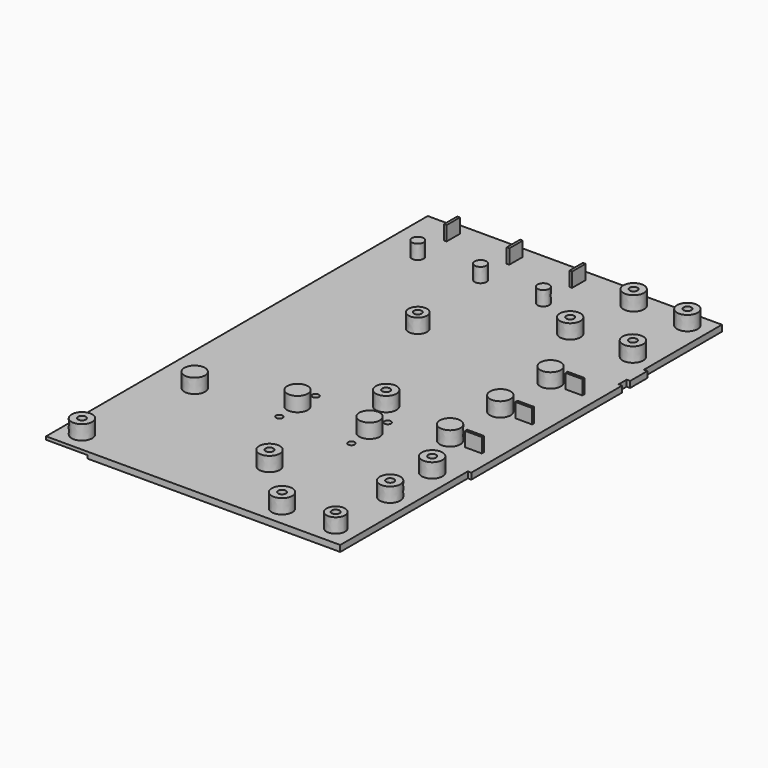
from build123d import *

# Parameters (mm, degrees)
SKETCH_W        = 132.8
SKETCH_H        = 231.6
PAD_DEPTH       = 3
SKETCH001_W     = 231.6
SKETCH001_H     = 1.5
POCKET_DEPTH    = 10
SKETCH002_W     = 231.6
SKETCH002_H     = 1.5
PAD001_DEPTH    = 10
SKETCH005_R     = 1.6
HOLE_DEPTH      = 3.001
SKETCH006_R     = 5
PAD003_DEPTH    = 7
SKETCH007_R     = 1.9
POCKET002_DEPTH = 8.6
SKETCH008_W     = 91.5
SKETCH008_H     = 3
SKETCH008_W_2   = 10.5
PAD004_DEPTH    = 1.7
SKETCH009_W     = 89.5
SKETCH009_H     = 3
PAD005_DEPTH    = 1.7
PAD006_DEPTH    = 7
POCKET003_DEPTH = 5.6


with BuildPart() as part:
    # Sketch → Pad (new body)
    with BuildSketch(Plane.XY.offset(18)):
        with Locations((66.4, 0)):
            Rectangle(SKETCH_W, SKETCH_H)
    extrude(amount=PAD_DEPTH)

    # Sketch001 (on Face4 of Pad) → Pocket (cut)
    with BuildSketch(Plane(origin=(0, 0, 18), x_dir=(0, -1, 0), z_dir=(-1, 0, 0))):
        with Locations((0, 0.75)):
            Rectangle(SKETCH001_W, SKETCH001_H)
    extrude(amount=-POCKET_DEPTH, mode=Mode.SUBTRACT)

    # Sketch002 (on Face7 of Pocket) → Pad001 (join)
    with BuildSketch(Plane(origin=(0, 0, 18), x_dir=(0, -1, 0), z_dir=(-1, 0, 0))):
        with Locations((0, 2.25)):
            Rectangle(SKETCH002_W, SKETCH002_H)
    extrude(amount=PAD001_DEPTH)

    # Sketch005 → Hole (cut, through all)
    with BuildSketch(Plane.XY.offset(21)):
        with Locations((49, -26)):
            Circle(SKETCH005_R)
        with Locations((84, -26)):
            Circle(SKETCH005_R)
        with Locations((49, -48)):
            Circle(SKETCH005_R)
        with Locations((84, -48)):
            Circle(SKETCH005_R)
    extrude(amount=-HOLE_DEPTH, mode=Mode.SUBTRACT)

    # Sketch006 (on Face6 of Hole) → Pad003 (join)
    with BuildSketch(Plane.XY.offset(21)):
        with Locations((49, -37)):
            Circle(SKETCH006_R)
        with Locations((84, -37)):
            Circle(SKETCH006_R)
    extrude(amount=PAD003_DEPTH)

    # Sketch007 (on Face4 of Pad003) → Pocket002 (cut)
    with BuildSketch(Plane(origin=(0, 0, 18), x_dir=(1, 0, 0), z_dir=(0, 0, -1))):
        with Locations((49, 37)):
            Circle(SKETCH007_R)
        with Locations((84, 37)):
            Circle(SKETCH007_R)
    extrude(amount=-POCKET002_DEPTH, mode=Mode.SUBTRACT)

    # Sketch008 (on Face5 of Pocket002) → Pad004 (join)
    with BuildSketch(Plane(origin=(132.8, 0, 18), x_dir=(0, 1, 0), z_dir=(1, 0, 0))):
        with Locations((7.35, 1.5)):
            Rectangle(SKETCH008_W, SKETCH008_H)
        with Locations((63.25, 1.5)):
            Rectangle(SKETCH008_W_2, SKETCH008_H)
    extrude(amount=PAD004_DEPTH)

    # Sketch009 (on Face1 of Pad004) → Pad005 (join)
    with BuildSketch(Plane(origin=(0, 115.8, 18), x_dir=(-1, 0, 0), z_dir=(0, 1, 0))):
        with Locations((-44.75, 1.5)):
            Rectangle(SKETCH009_W, SKETCH009_H)
    extrude(amount=PAD005_DEPTH)

    # Sketch010 (on Face5 of Pad005) → Pad006 (join)
    with BuildSketch(Plane.XY.offset(21)):
        with BuildLine():
            add(Edge.make_bspline(
                [(127.768118, -23.612538), (127.768118, -22.342538)],
                knots=[0, 0, 500, 500], degree=1))
            add(Edge.make_bspline(
                [(127.768118, -22.342538), (119.640118, -22.342538)],
                knots=[0, 0, 3200, 3200], degree=1))
            add(Edge.make_bspline(
                [(119.640118, -22.342538), (119.640118, -23.612538)],
                knots=[0, 0, 500, 500], degree=1))
            add(Edge.make_bspline(
                [(119.640118, -23.612538), (127.768118, -23.612538)],
                knots=[0, 0, 3200, 3200], degree=1))
        make_face()
        with BuildLine():
            add(Edge.make_bspline(
                [(127.768118, 6.867462), (127.768118, 8.137462)],
                knots=[0, 0, 500, 500], degree=1))
            add(Edge.make_bspline(
                [(127.768118, 8.137462), (119.640118, 8.137462)],
                knots=[0, 0, 3200, 3200], degree=1))
            add(Edge.make_bspline(
                [(119.640118, 8.137462), (119.640118, 6.867462)],
                knots=[0, 0, 500, 500], degree=1))
            add(Edge.make_bspline(
                [(119.640118, 6.867462), (127.768118, 6.867462)],
                knots=[0, 0, 3200, 3200], degree=1))
        make_face()
        with BuildLine():
            add(Edge.make_bspline(
                [(119.640118, 37.347462), (127.768118, 37.347462)],
                knots=[0, 0, 3200, 3200], degree=1))
            add(Edge.make_bspline(
                [(127.768118, 37.347462), (127.768118, 38.617462)],
                knots=[0, 0, 500, 500], degree=1))
            add(Edge.make_bspline(
                [(127.768118, 38.617462), (119.640118, 38.617462)],
                knots=[0, 0, 3200, 3200], degree=1))
            add(Edge.make_bspline(
                [(119.640118, 38.617462), (119.640118, 37.347462)],
                knots=[0, 0, 500, 500], degree=1))
        make_face()
        with BuildLine():
            add(Edge.make_bspline(
                [(71.679914, 87.385462), (71.679914, 92.304134), (67.42022, 89.844798), (63.160525, 87.385462), (67.42022, 84.926127), (71.679914, 82.466791), (71.679914, 87.385462)],
                knots=[0, 0, 0, 2.094395, 2.094395, 4.18879, 4.18879, 6.283185, 6.283185, 6.283185], degree=2, weights=[1, 0.5, 1, 0.5, 1, 0.5, 1]))
        make_face()
        with BuildLine():
            add(Edge.make_bspline(
                [(10.719914, 87.385462), (10.719914, 92.304134), (6.46022, 89.844798), (2.200525, 87.385462), (6.46022, 84.926127), (10.719914, 82.466791), (10.719914, 87.385462)],
                knots=[0, 0, 0, 2.094395, 2.094395, 4.18879, 4.18879, 6.283185, 6.283185, 6.283185], degree=2, weights=[1, 0.5, 1, 0.5, 1, 0.5, 1]))
        make_face()
        with BuildLine():
            add(Edge.make_bspline(
                [(7.372118, 112.023462), (7.372118, 103.895462)],
                knots=[0, 0, 3200, 3200], degree=1))
            add(Edge.make_bspline(
                [(7.372118, 103.895462), (8.642118, 103.895462)],
                knots=[0, 0, 500, 500], degree=1))
            add(Edge.make_bspline(
                [(8.642118, 103.895462), (8.642118, 112.023462)],
                knots=[0, 0, 3200, 3200], degree=1))
            add(Edge.make_bspline(
                [(8.642118, 112.023462), (7.372118, 112.023462)],
                knots=[0, 0, 500, 500], degree=1))
        make_face()
        with BuildLine():
            add(Edge.make_bspline(
                [(68.332118, 112.023462), (68.332118, 103.895462)],
                knots=[0, 0, 3200, 3200], degree=1))
            add(Edge.make_bspline(
                [(68.332118, 103.895462), (69.602118, 103.895462)],
                knots=[0, 0, 500, 500], degree=1))
            add(Edge.make_bspline(
                [(69.602118, 103.895462), (69.602118, 112.023462)],
                knots=[0, 0, 3200, 3200], degree=1))
            add(Edge.make_bspline(
                [(69.602118, 112.023462), (68.332118, 112.023462)],
                knots=[0, 0, 500, 500], degree=1))
        make_face()
        with BuildLine():
            add(Edge.make_bspline(
                [(39.122118, 112.023462), (37.852118, 112.023462)],
                knots=[0, 0, 500, 500], degree=1))
            add(Edge.make_bspline(
                [(37.852118, 112.023462), (37.852118, 103.895462)],
                knots=[0, 0, 3200, 3200], degree=1))
            add(Edge.make_bspline(
                [(37.852118, 103.895462), (39.122118, 103.895462)],
                knots=[0, 0, 500, 500], degree=1))
            add(Edge.make_bspline(
                [(39.122118, 103.895462), (39.122118, 112.023462)],
                knots=[0, 0, 3200, 3200], degree=1))
        make_face()
        with BuildLine():
            add(Edge.make_bspline(
                [(41.199914, 87.385462), (41.199914, 92.304134), (36.94022, 89.844798), (32.680525, 87.385462), (36.94022, 84.926127), (41.199914, 82.466791), (41.199914, 87.385462)],
                knots=[0, 0, 0, 2.094395, 2.094395, 4.18879, 4.18879, 6.283185, 6.283185, 6.283185], degree=2, weights=[1, 0.5, 1, 0.5, 1, 0.5, 1]))
        make_face()
        with BuildLine():
            add(Edge.make_bspline(
                [(116.766108, 38.109462), (116.766108, 46.769699), (109.266123, 42.439581), (101.766138, 38.109462), (109.266123, 33.779344), (116.766108, 29.449226), (116.766108, 38.109462)],
                knots=[0, 0, 0, 2.094395, 2.094395, 4.18879, 4.18879, 6.283185, 6.283185, 6.283185], degree=2, weights=[1, 0.5, 1, 0.5, 1, 0.5, 1]))
        make_face()
        with BuildLine():
            add(Edge.make_bspline(
                [(116.766108, -22.850538), (116.766108, -14.190301), (109.266123, -18.520419), (101.766138, -22.850538), (109.266123, -27.180656), (116.766108, -31.510774), (116.766108, -22.850538)],
                knots=[0, 0, 0, 2.094395, 2.094395, 4.18879, 4.18879, 6.283185, 6.283185, 6.283185], degree=2, weights=[1, 0.5, 1, 0.5, 1, 0.5, 1]))
        make_face()
        with BuildLine():
            add(Edge.make_bspline(
                [(116.766108, 7.629462), (116.766108, 16.289699), (109.266123, 11.959581), (101.766138, 7.629462), (109.266123, 3.299344), (116.766108, -1.030774), (116.766108, 7.629462)],
                knots=[0, 0, 0, 2.094395, 2.094395, 4.18879, 4.18879, 6.283185, 6.283185, 6.283185], degree=2, weights=[1, 0.5, 1, 0.5, 1, 0.5, 1]))
        make_face()
        with BuildLine():
            add(Edge.make_bspline(
                [(127.878608, -47.615538), (127.878608, -38.955301), (120.378623, -43.285419), (112.878638, -47.615538), (120.378623, -51.945656), (127.878608, -56.275774), (127.878608, -47.615538)],
                knots=[0, 0, 0, 2.094395, 2.094395, 4.18879, 4.18879, 6.283185, 6.283185, 6.283185], degree=2, weights=[1, 0.5, 1, 0.5, 1, 0.5, 1]))
        make_face()
        with BuildLine():
            add(Edge.make_bspline(
                [(49.273609, 41.284462), (49.273609, 49.078675), (42.523622, 45.181569), (35.773636, 41.284462), (42.523622, 37.387356), (49.273609, 33.490249), (49.273609, 41.284462)],
                knots=[0, 0, 0, 2.094395, 2.094395, 4.18879, 4.18879, 6.283185, 6.283185, 6.283185], degree=2, weights=[1, 0.5, 1, 0.5, 1, 0.5, 1]))
        make_face()
        with BuildLine():
            add(Edge.make_bspline(
                [(97.462108, 74.177462), (97.462108, 82.837699), (89.962123, 78.507581), (82.462138, 74.177462), (89.962123, 69.847344), (97.462108, 65.517226), (97.462108, 74.177462)],
                knots=[0, 0, 0, 2.094395, 2.094395, 4.18879, 4.18879, 6.283185, 6.283185, 6.283185], degree=2, weights=[1, 0.5, 1, 0.5, 1, 0.5, 1]))
        make_face()
        with BuildLine():
            add(Edge.make_bspline(
                [(80.253608, -15.997618), (80.253608, -7.337381), (72.753623, -11.667499), (65.253638, -15.997618), (72.753623, -20.327736), (80.253608, -24.657854), (80.253608, -15.997618)],
                knots=[0, 0, 0, 2.094395, 2.094395, 4.18879, 4.18879, 6.283185, 6.283185, 6.283185], degree=2, weights=[1, 0.5, 1, 0.5, 1, 0.5, 1]))
        make_face()
        with BuildLine():
            add(Edge.make_bspline(
                [(14.213608, -49.647538), (14.213608, -40.987301), (6.713623, -45.317419), (-0.786362, -49.647538), (6.713623, -53.977656), (14.213608, -58.307774), (14.213608, -49.647538)],
                knots=[0, 0, 0, 2.094395, 2.094395, 4.18879, 4.18879, 6.283185, 6.283185, 6.283185], degree=2, weights=[1, 0.5, 1, 0.5, 1, 0.5, 1]))
        make_face()
        with BuildLine():
            add(Edge.make_bspline(
                [(76.443608, -82.032538), (76.443608, -73.372301), (68.943623, -77.702419), (61.443638, -82.032538), (68.943623, -86.362656), (76.443608, -90.692774), (76.443608, -82.032538)],
                knots=[0, 0, 0, 2.094395, 2.094395, 4.18879, 4.18879, 6.283185, 6.283185, 6.283185], degree=2, weights=[1, 0.5, 1, 0.5, 1, 0.5, 1]))
        make_face()
        with BuildLine():
            add(Edge.make_bspline(
                [(101.843608, 107.197462), (101.843608, 115.857699), (94.343623, 111.527581), (86.843638, 107.197462), (94.343623, 102.867344), (101.843608, 98.537226), (101.843608, 107.197462)],
                knots=[0, 0, 0, 2.094395, 2.094395, 4.18879, 4.18879, 6.283185, 6.283185, 6.283185], degree=2, weights=[1, 0.5, 1, 0.5, 1, 0.5, 1]))
        make_face()
        with BuildLine():
            add(Edge.make_bspline(
                [(127.878608, 74.177462), (127.878608, 82.837699), (120.378623, 78.507581), (112.878638, 74.177462), (120.378623, 69.847344), (127.878608, 65.517226), (127.878608, 74.177462)],
                knots=[0, 0, 0, 2.094395, 2.094395, 4.18879, 4.18879, 6.283185, 6.283185, 6.283185], degree=2, weights=[1, 0.5, 1, 0.5, 1, 0.5, 1]))
        make_face()
        with BuildLine():
            add(Edge.make_bspline(
                [(127.878608, -73.142538), (127.878608, -64.482301), (120.378623, -68.812419), (112.878638, -73.142538), (120.378623, -77.472656), (127.878608, -81.802774), (127.878608, -73.142538)],
                knots=[0, 0, 0, 2.094395, 2.094395, 4.18879, 4.18879, 6.283185, 6.283185, 6.283185], degree=2, weights=[1, 0.5, 1, 0.5, 1, 0.5, 1]))
        make_face()
        with BuildLine():
            add(Edge.make_bspline(
                [(101.843608, -106.162538), (101.843608, -97.502301), (94.343623, -101.832419), (86.843638, -106.162538), (94.343623, -110.492656), (101.843608, -114.822774), (101.843608, -106.162538)],
                knots=[0, 0, 0, 2.094395, 2.094395, 4.18879, 4.18879, 6.283185, 6.283185, 6.283185], degree=2, weights=[1, 0.5, 1, 0.5, 1, 0.5, 1]))
        make_face()
        with BuildLine():
            add(Edge.make_bspline(
                [(4.688608, -106.162538), (4.688608, -97.502301), (-2.811377, -101.832419), (-10.311362, -106.162538), (-2.811377, -110.492656), (4.688608, -114.822774), (4.688608, -106.162538)],
                knots=[0, 0, 0, 2.094395, 2.094395, 4.18879, 4.18879, 6.283185, 6.283185, 6.283185], degree=2, weights=[1, 0.5, 1, 0.5, 1, 0.5, 1]))
        make_face()
        with BuildLine():
            add(Edge.make_bspline(
                [(127.878608, 107.240896), (127.878608, 115.901133), (120.378623, 111.571015), (112.878638, 107.240896), (120.378623, 102.910778), (127.878608, 98.58066), (127.878608, 107.240896)],
                knots=[0, 0, 0, 2.094395, 2.094395, 4.18879, 4.18879, 6.283185, 6.283185, 6.283185], degree=2, weights=[1, 0.5, 1, 0.5, 1, 0.5, 1]))
        make_face()
        with BuildLine():
            add(Edge.make_bspline(
                [(127.378609, -106.119104), (127.378609, -98.324891), (120.628622, -102.221997), (113.878636, -106.119104), (120.628622, -110.01621), (127.378609, -113.913317), (127.378609, -106.119104)],
                knots=[0, 0, 0, 2.094395, 2.094395, 4.18879, 4.18879, 6.283185, 6.283185, 6.283185], degree=2, weights=[1, 0.5, 1, 0.5, 1, 0.5, 1]))
        make_face()
    extrude(amount=PAD006_DEPTH)

    # Sketch011 (on Face102 of Pad006) → Pocket003 (cut)
    with BuildSketch(Plane.XY.offset(28)):
        with BuildLine():
            add(Edge.make_bspline(
                [(124.778616, -47.615538), (124.778616, -44.324643), (121.928618, -45.97009), (119.07862, -47.615538), (121.928618, -49.260985), (124.778616, -50.906432), (124.778616, -47.615538)],
                knots=[0, 0, 0, 2.094395, 2.094395, 4.18879, 4.18879, 6.283185, 6.283185, 6.283185], degree=2, weights=[1, 0.5, 1, 0.5, 1, 0.5, 1]))
        make_face()
        with BuildLine():
            add(Edge.make_bspline(
                [(94.362116, 74.177462), (94.362116, 77.468357), (91.512118, 75.82291), (88.66212, 74.177462), (91.512118, 72.532015), (94.362116, 70.886568), (94.362116, 74.177462)],
                knots=[0, 0, 0, 2.094395, 2.094395, 4.18879, 4.18879, 6.283185, 6.283185, 6.283185], degree=2, weights=[1, 0.5, 1, 0.5, 1, 0.5, 1]))
        make_face()
        with BuildLine():
            add(Edge.make_bspline(
                [(46.673616, 41.284462), (46.673616, 44.575357), (43.823618, 42.92991), (40.97362, 41.284462), (43.823618, 39.639015), (46.673616, 37.993568), (46.673616, 41.284462)],
                knots=[0, 0, 0, 2.094395, 2.094395, 4.18879, 4.18879, 6.283185, 6.283185, 6.283185], degree=2, weights=[1, 0.5, 1, 0.5, 1, 0.5, 1]))
        make_face()
        with BuildLine():
            add(Edge.make_bspline(
                [(77.153616, -15.997618), (77.153616, -12.706723), (74.303618, -14.35217), (71.45362, -15.997618), (74.303618, -17.643065), (77.153616, -19.288512), (77.153616, -15.997618)],
                knots=[0, 0, 0, 2.094395, 2.094395, 4.18879, 4.18879, 6.283185, 6.283185, 6.283185], degree=2, weights=[1, 0.5, 1, 0.5, 1, 0.5, 1]))
        make_face()
        with BuildLine():
            add(Edge.make_bspline(
                [(73.343616, -82.032538), (73.343616, -78.741643), (70.493618, -80.38709), (67.64362, -82.032538), (70.493618, -83.677985), (73.343616, -85.323432), (73.343616, -82.032538)],
                knots=[0, 0, 0, 2.094395, 2.094395, 4.18879, 4.18879, 6.283185, 6.283185, 6.283185], degree=2, weights=[1, 0.5, 1, 0.5, 1, 0.5, 1]))
        make_face()
        with BuildLine():
            add(Edge.make_bspline(
                [(98.743616, 107.197462), (98.743616, 110.488357), (95.893618, 108.84291), (93.04362, 107.197462), (95.893618, 105.552015), (98.743616, 103.906568), (98.743616, 107.197462)],
                knots=[0, 0, 0, 2.094395, 2.094395, 4.18879, 4.18879, 6.283185, 6.283185, 6.283185], degree=2, weights=[1, 0.5, 1, 0.5, 1, 0.5, 1]))
        make_face()
        with BuildLine():
            add(Edge.make_bspline(
                [(124.778616, 74.177462), (124.778616, 77.468357), (121.928618, 75.82291), (119.07862, 74.177462), (121.928618, 72.532015), (124.778616, 70.886568), (124.778616, 74.177462)],
                knots=[0, 0, 0, 2.094395, 2.094395, 4.18879, 4.18879, 6.283185, 6.283185, 6.283185], degree=2, weights=[1, 0.5, 1, 0.5, 1, 0.5, 1]))
        make_face()
        with BuildLine():
            add(Edge.make_bspline(
                [(124.778616, -73.142538), (124.778616, -69.851643), (121.928618, -71.49709), (119.07862, -73.142538), (121.928618, -74.787985), (124.778616, -76.433432), (124.778616, -73.142538)],
                knots=[0, 0, 0, 2.094395, 2.094395, 4.18879, 4.18879, 6.283185, 6.283185, 6.283185], degree=2, weights=[1, 0.5, 1, 0.5, 1, 0.5, 1]))
        make_face()
        with BuildLine():
            add(Edge.make_bspline(
                [(98.743616, -106.162538), (98.743616, -102.871643), (95.893618, -104.51709), (93.04362, -106.162538), (95.893618, -107.807985), (98.743616, -109.453432), (98.743616, -106.162538)],
                knots=[0, 0, 0, 2.094395, 2.094395, 4.18879, 4.18879, 6.283185, 6.283185, 6.283185], degree=2, weights=[1, 0.5, 1, 0.5, 1, 0.5, 1]))
        make_face()
        with BuildLine():
            add(Edge.make_bspline(
                [(1.588616, -106.162538), (1.588616, -102.871643), (-1.261382, -104.51709), (-4.11138, -106.162538), (-1.261382, -107.807985), (1.588616, -109.453432), (1.588616, -106.162538)],
                knots=[0, 0, 0, 2.094395, 2.094395, 4.18879, 4.18879, 6.283185, 6.283185, 6.283185], degree=2, weights=[1, 0.5, 1, 0.5, 1, 0.5, 1]))
        make_face()
        with BuildLine():
            add(Edge.make_bspline(
                [(124.778616, 107.324462), (124.778616, 110.615357), (121.928618, 108.96991), (119.07862, 107.324462), (121.928618, 105.679015), (124.778616, 104.033568), (124.778616, 107.324462)],
                knots=[0, 0, 0, 2.094395, 2.094395, 4.18879, 4.18879, 6.283185, 6.283185, 6.283185], degree=2, weights=[1, 0.5, 1, 0.5, 1, 0.5, 1]))
        make_face()
        with BuildLine():
            add(Edge.make_bspline(
                [(124.778616, -106.162538), (124.778616, -102.871643), (121.928618, -104.51709), (119.07862, -106.162538), (121.928618, -107.807985), (124.778616, -109.453432), (124.778616, -106.162538)],
                knots=[0, 0, 0, 2.094395, 2.094395, 4.18879, 4.18879, 6.283185, 6.283185, 6.283185], degree=2, weights=[1, 0.5, 1, 0.5, 1, 0.5, 1]))
        make_face()
    extrude(amount=-POCKET003_DEPTH, mode=Mode.SUBTRACT)


solid = part.part
